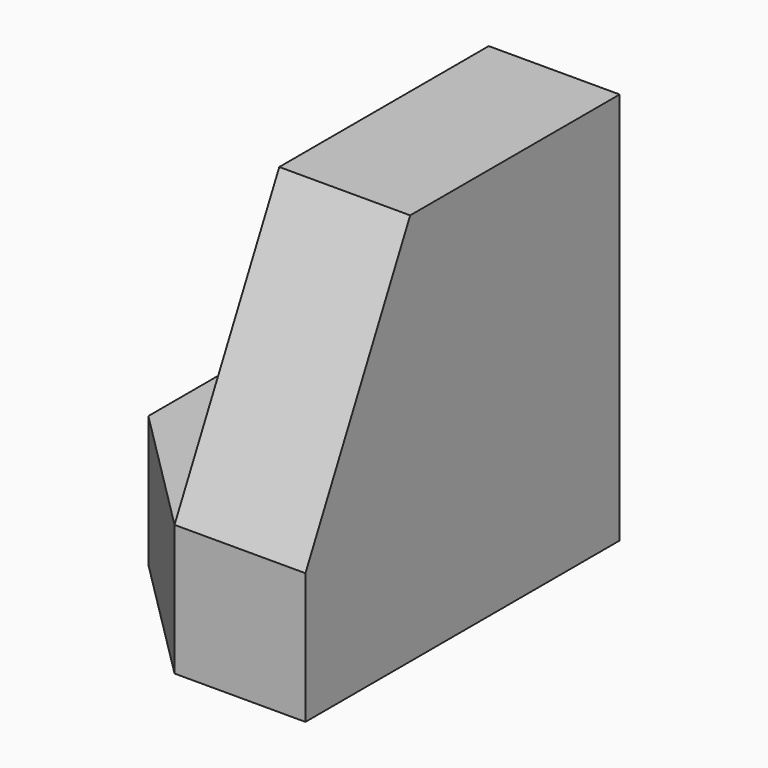
from build123d import *

# Parameters (mm, degrees)
F1_DEPTH = 38.1
F3_DEPTH = 12.7
F5_DEPTH = 12.7
F7_DEPTH = 12.7


with BuildPart() as f1:
    # F0 (on Front) → F1 (new body)
    with BuildSketch(Plane.XZ):
        Polygon((0, 12.7), (0, 0), (25.4, 0), (25.4, 38.1), (12.7, 38.1), (12.7, 12.7), align=None)
    extrude(amount=F1_DEPTH)

    # F2 (on face) → F3 (cut)
    with BuildSketch(Plane.XZ.offset(38.1)):
        Polygon((12.7, 38.1), (0, 38.1), (12.7, 12.7), align=None)
    extrude(amount=-F3_DEPTH, mode=Mode.SUBTRACT)

    # F4 (on face) → F5 (cut)
    with BuildSketch(Plane(origin=(12.7, 0, 0), x_dir=(0, -1, 0), z_dir=(-1, 0, 0))):
        Polygon((38.1, 38.1), (25.4, 38.1), (38.1, 12.7), (38.1, 28.938383), align=None)
    extrude(amount=-F5_DEPTH, mode=Mode.SUBTRACT)

    # F6 (on face) → F7 (cut)
    with BuildSketch(Plane.XY.offset(12.7)):
        Polygon((12.7, -38.1), (0, -25.4), (0, -38.1), align=None)
    extrude(amount=-F7_DEPTH, mode=Mode.SUBTRACT)


solid = f1.part
